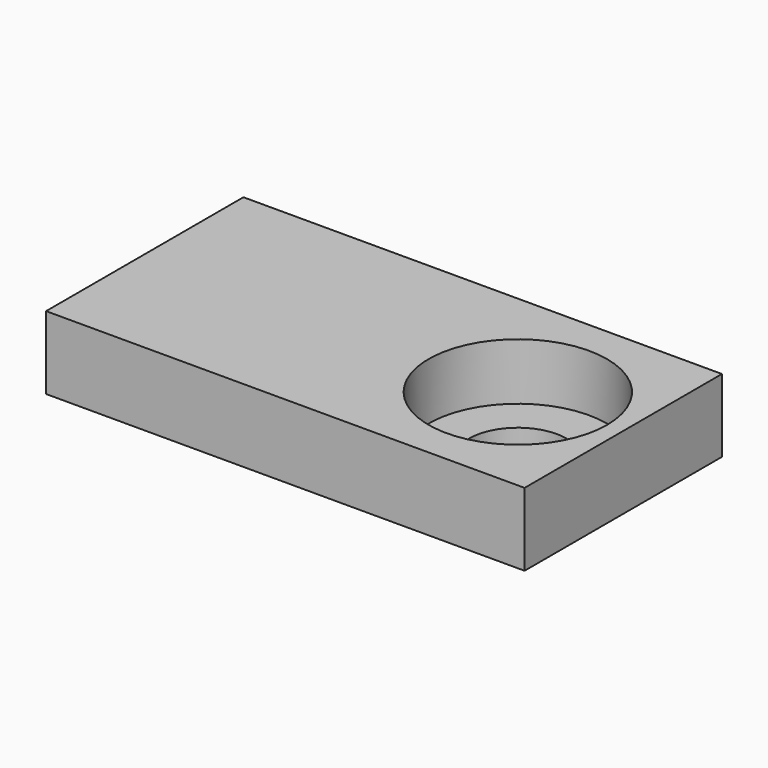
from build123d import *

# Parameters (mm, degrees)
F0_R     = 13
F0_R_2   = 11
F0_W     = 59
F0_H     = 2
F1_DEPTH = 9
F0_R_3   = 6
F2_DEPTH = 2
F3_W     = 26.42
F3_H     = 3.66
F4_DEPTH = 32.91456


with BuildPart() as f1:
    # F0 (on Top) → F1 (new body)
    with BuildSketch(Plane.XY):
        Polygon((13, -13.208), (13, 0), (13, 13.208), (-46, 13.208), (-46, -13.208), align=None)
        Circle(F0_R, mode=Mode.SUBTRACT)
        Circle(F0_R)
        Circle(F0_R_2, mode=Mode.SUBTRACT)
        with Locations((-16.5, 14.208)):
            Rectangle(F0_W, F0_H)
        with Locations((-16.5, -14.208)):
            Rectangle(F0_W, F0_H)
    extrude(amount=F1_DEPTH)

    # F0 (on Top) → F2 (join)
    with BuildSketch(Plane.XY):
        Circle(F0_R_2)
        Circle(F0_R_3, mode=Mode.SUBTRACT)
    extrude(amount=F2_DEPTH)

    # F3 (on face) → F4 (cut)
    with BuildSketch(Plane(origin=(-46, 0, 0), x_dir=(0, -1, 0), z_dir=(-1, 0, 0))):
        with Locations((0, 4.5)):
            Rectangle(F3_W, F3_H)
    extrude(amount=-F4_DEPTH, mode=Mode.SUBTRACT)


solid = f1.part
